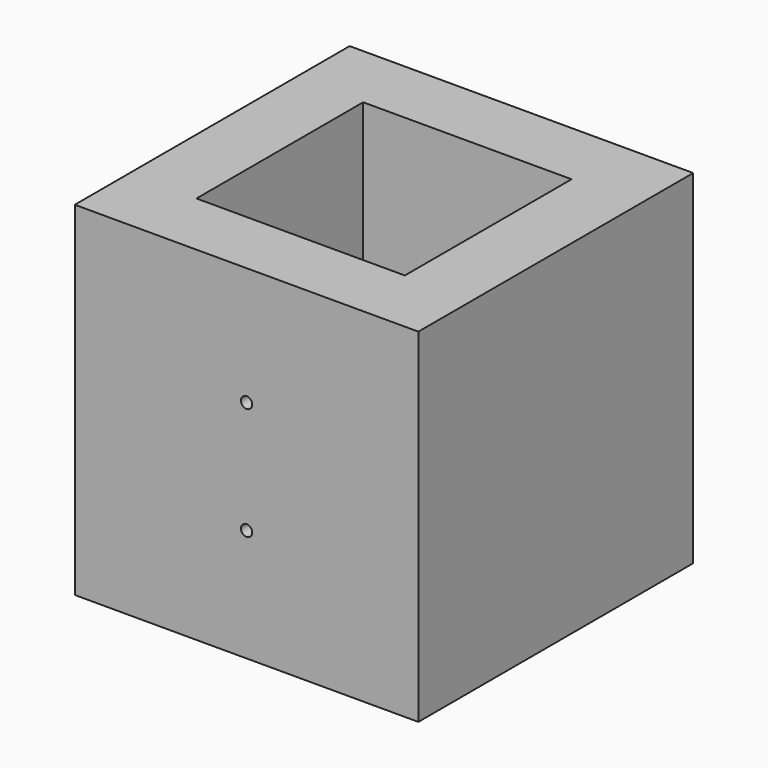
from build123d import *

# Parameters (mm, degrees)
F0_W     = 193.675
F0_H     = 193.675
F0_W_2   = 117.475
F0_H_2   = 117.475
F1_DEPTH = 193.675
F2_R     = 3.175
F3_DEPTH = 38.1


with BuildPart() as f1:
    # F0 (on Top) → F1 (new body)
    with BuildSketch(Plane.XY):
        with Locations((96.8375, 96.8375)):
            Rectangle(F0_W, F0_H)
        with Locations((96.8375, 96.8375)):
            Rectangle(F0_W_2, F0_H_2, mode=Mode.SUBTRACT)
    extrude(amount=F1_DEPTH)

    # F2 (on face) → F3 (cut, through all)
    with BuildSketch(Plane.XZ):
        with Locations((96.8375, 127)):
            Circle(F2_R)
        with Locations((96.8375, 63.5)):
            Circle(F2_R)
    extrude(amount=-F3_DEPTH, mode=Mode.SUBTRACT)


solid = f1.part
